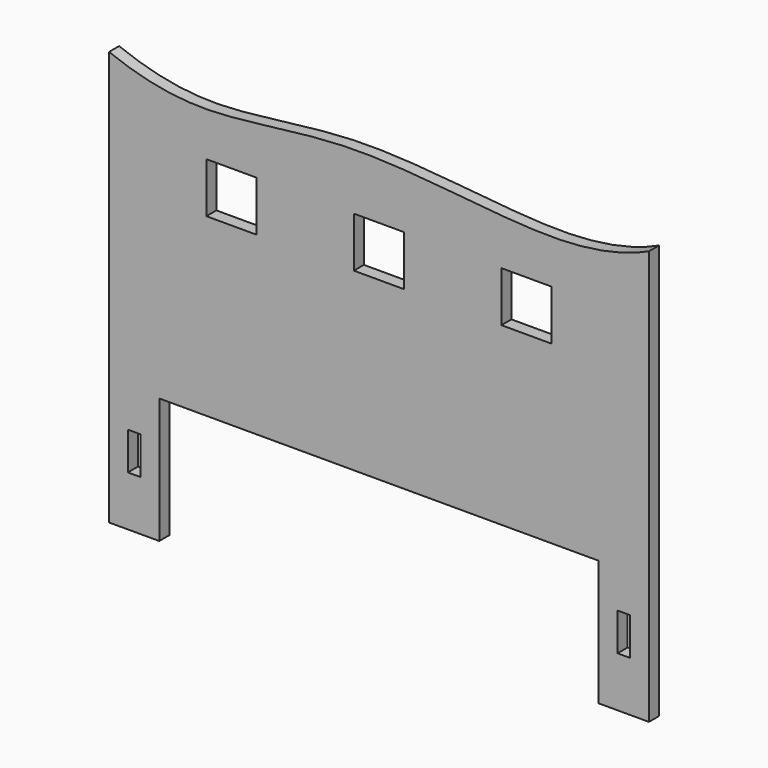
from build123d import *

# Parameters (mm, degrees)
F0_W     = 203.2
F0_H     = 508
F0_W_2   = 50.8
F0_H_2   = 152.4
F0_H_3   = 203.2
F1_DEPTH = 50.8


with BuildPart() as f1:
    # F0 (on Front) → F1 (new body)
    with BuildSketch(Plane.XZ):
        with Locations((-990.6, -838.2)):
            Rectangle(F0_W, F0_H)
        with Locations((-990.6, -812.8)):
            Rectangle(F0_W_2, F0_H_2, mode=Mode.SUBTRACT)
        with Locations((990.6, -838.2)):
            Rectangle(F0_W, F0_H)
        with Locations((990.6, -812.8)):
            Rectangle(F0_W_2, F0_H_2, mode=Mode.SUBTRACT)
        with BuildLine():
            add(Edge.make_bspline(
                [(-1092.2, 584.2), (-980.9341244819, 539.9121567226), (-692.3205033902, 468.9691085106), (-103.7885392301, 611.398573737), (693.6453585688, 466.7257971096), (995.3503534145, 539.0780902978), (1092.2, 584.2)],
                knots=[0, 0, 0, 0, 0.2126532774, 0.4794774151, 0.7873467226, 1, 1, 1, 1], degree=3))
            Line((-1092.2, 584.2), (-1092.2, -584.2))
            Line((-1092.2, -584.2), (-889, -584.2))
            Line((-889, -584.2), (889, -584.2))
            Line((889, -584.2), (1092.2, -584.2))
            Line((1092.2, -584.2), (1092.2, 584.2))
        make_face()
        with Locations((-596.9, 228.6)):
            Rectangle(F0_W, F0_H_3, mode=Mode.SUBTRACT)
        with Locations((0, 228.6)):
            Rectangle(F0_W, F0_H_3, mode=Mode.SUBTRACT)
        with Locations((596.9, 228.6)):
            Rectangle(F0_W, F0_H_3, mode=Mode.SUBTRACT)
    extrude(amount=F1_DEPTH)


solid = f1.part
